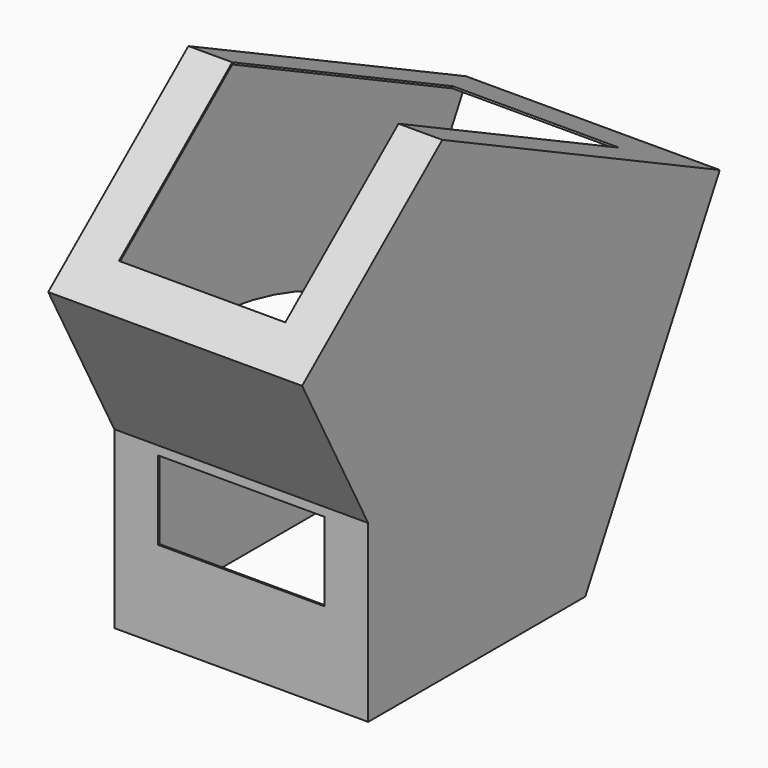
from build123d import *

# Parameters (mm, degrees)
F1_DEPTH  = 368.3
F2_T      = -2.54
F3_W      = 241.3
F3_H      = 444.5
F4_DEPTH  = 25.4
F5_W      = 241.3
F5_H      = 266.7
F6_DEPTH  = 25.4
F7_W      = 241.3
F7_H      = 114.3
F8_DEPTH  = 25.4
F10_DEPTH = 25.4


with BuildPart() as f1:
    # F0 (on Right) → F1 (new body)
    with BuildSketch(Plane.YZ):
        Polygon((-224.4092495818, -219.5814980744), (169.2907504182, -219.5814980744), (413.1046041976, 226.0851988026), (-90.0800447439, 469.1132816853), (-344.2729837605, 258.357523154), (-224.4092495818, 34.4185019256), align=None)
    extrude(amount=F1_DEPTH)

    # F2
    f2_openings = [f1.faces().sort_by_distance(p)[0] for p in [
        (184.15, 291.197677, 3.25185),
        (184.15, -27.55925, -219.581498),
    ]]
    offset(amount=F2_T, openings=f2_openings, kind=Kind.INTERSECTION)

    # F3 (on face) → F4 (cut)
    with BuildSketch(Plane(origin=(0, 166.6783638091, 345.1041253529), x_dir=(1, 0, 0), z_dir=(0, 0.4349106709, 0.9004736023))):
        with Locations((184.15, -62.8870744342)):
            Rectangle(F3_W, F3_H)
    extrude(amount=-F4_DEPTH, mode=Mode.SUBTRACT)

    # F5 (on face) → F6 (cut)
    with BuildSketch(Plane(origin=(0, -267.194897424, 322.2642965476), x_dir=(1, 0, 0), z_dir=(0, -0.6382669853, 0.7698150788))):
        with Locations((184.15, 96.7245433025)):
            Rectangle(F5_W, F5_H)
    extrude(amount=-F6_DEPTH, mode=Mode.SUBTRACT)

    # F7 (on face) → F8 (cut)
    with BuildSketch(Plane.XZ.offset(224.4092495818)):
        with Locations((184.15, -35.4314980744)):
            Rectangle(F7_W, F7_H)
    extrude(amount=-F8_DEPTH, mode=Mode.SUBTRACT)

    # F9 (on face) → F10 (cut)
    with BuildSketch(Plane.YZ.offset(2.54)):
        with BuildLine():
            ThreePointArc((-98.6126363277, 46.6085672379), (85.2821775, 15.4665672824), (248.5302528965, -74.7398215894))
            Line((248.5302528965, -74.7398215894), (279.006984619, -19.0314844798))
            ThreePointArc((279.006984619, -19.0314844798), (101.5154343461, 78.6343708282), (-98.6126363277, 110.1085672379))
            ThreePointArc((-98.6126363277, 110.1085672379), (-130.3626363277, 78.3585672379), (-98.6126363277, 46.6085672379))
        make_face()
    extrude(amount=-F10_DEPTH, mode=Mode.SUBTRACT)


solid = f1.part
